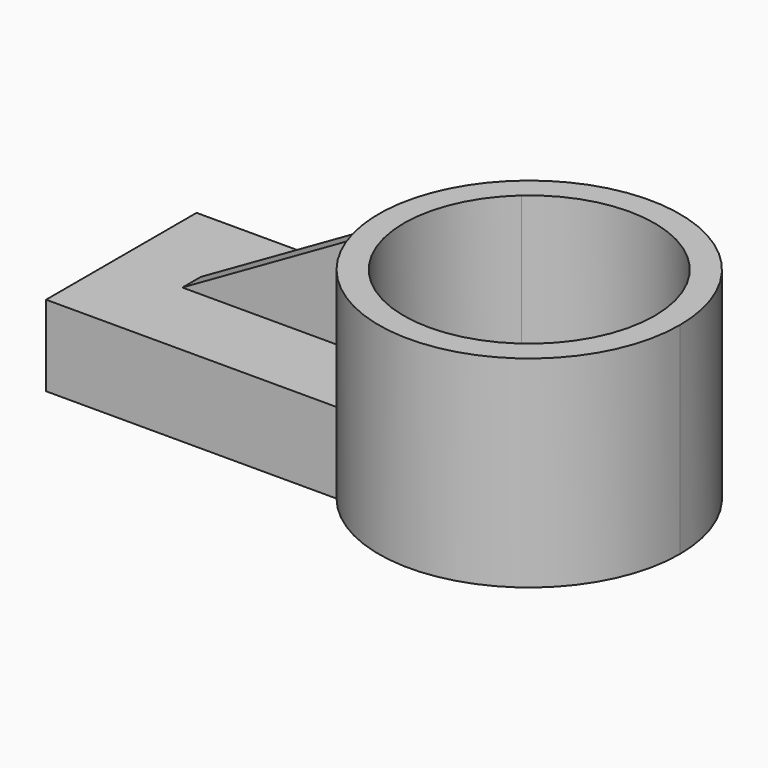
from build123d import *

# Parameters (mm, degrees)
F1_DEPTH = 7.112
F2_DEPTH = 17.78
F4_DEPTH = 1.016
F5_DEPTH = 1.016


with BuildPart() as f1:
    # F0 (on Top) → F1 (new body)
    with BuildSketch(Plane.XY):
        with BuildLine():
            ThreePointArc((6.6260949281, -8.2945636224), (3.7152332811, 0), (6.6260949281, 8.2945636224))
            Line((6.6260949281, 8.2945636224), (-18.9858246595, 8.2945636224))
            Line((-18.9858246595, 8.2945636224), (-18.9858246595, -8.2945636224))
            Line((-18.9858246595, -8.2945636224), (6.6260949281, -8.2945636224))
        make_face()
    extrude(amount=F1_DEPTH)

    # F0 (on Top) → F2 (join)
    with BuildSketch(Plane.XY):
        with BuildLine():
            Line((6.6260949281, 8.2945636224), (9.6757363367, 8.2945636224))
            ThreePointArc((9.6757363367, 8.2945636224), (21.5388654762, 10.0781398953), (28.046251553, 0))
            ThreePointArc((28.046251553, 0), (21.5388654762, -10.0781398953), (9.6757363367, -8.2945636224))
            Line((9.6757363367, -8.2945636224), (6.6260949281, -8.2945636224))
            ThreePointArc((6.6260949281, -8.2945636224), (21.3836842093, -12.5243614328), (30.2616345138, 0))
            ThreePointArc((30.2616345138, 0), (21.3836842093, 12.5243614328), (6.6260949281, 8.2945636224))
        make_face()
        with BuildLine():
            ThreePointArc((9.6757363367, -8.2945636224), (5.930616242, 0), (9.6757363367, 8.2945636224))
            Line((9.6757363367, 8.2945636224), (6.6260949281, 8.2945636224))
            ThreePointArc((6.6260949281, 8.2945636224), (3.7152332811, 0), (6.6260949281, -8.2945636224))
            Line((6.6260949281, -8.2945636224), (9.6757363367, -8.2945636224))
        make_face()
    extrude(amount=F2_DEPTH)

    # F3 (on Front) → F4 (join)
    with BuildSketch(Plane.XZ):
        Polygon((-12.7892365647, 7.112), (5.8557423763, 7.112), (5.8557423763, 17.78), align=None)
    extrude(amount=F4_DEPTH)

    # F5 (add): a face of the model
    f5_faces = [f1.faces().sort_by_distance(p)[0] for p in [
        (-1.7862566675, 0, 10.2597587053),
    ]]
    extrude(f5_faces, amount=F5_DEPTH)


solid = f1.part
